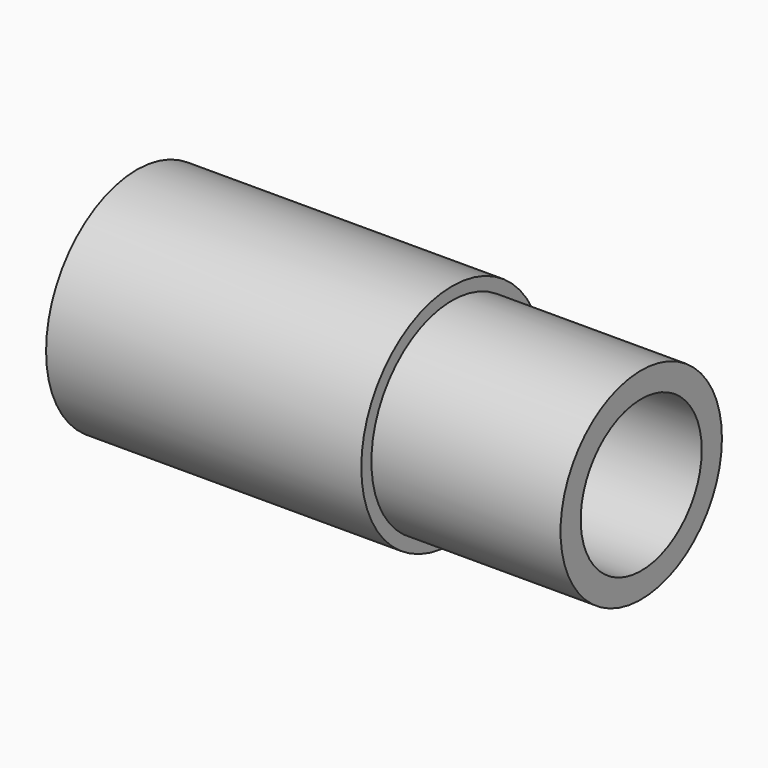
from build123d import *

# Parameters (mm, degrees)
F0_R          = 4
F0_R_2        = 3
F1_DEPTH      = 7.5
F1_DEPTH_BACK = 12.5
F0_R_3        = 4.5
F2_DEPTH      = 12.5


with BuildPart() as f1:
    # F0 (on Right) → F1 (new body, two sides)
    with BuildSketch(Plane.YZ) as f1_sk:
        Circle(F0_R)
        Circle(F0_R_2, mode=Mode.SUBTRACT)
    extrude(amount=F1_DEPTH)
    extrude(f1_sk.sketch, amount=-F1_DEPTH_BACK)

    # F0 (on Right) → F2 (join)
    with BuildSketch(Plane.YZ):
        Circle(F0_R_3)
        Circle(F0_R, mode=Mode.SUBTRACT)
    extrude(amount=-F2_DEPTH)


solid = f1.part
